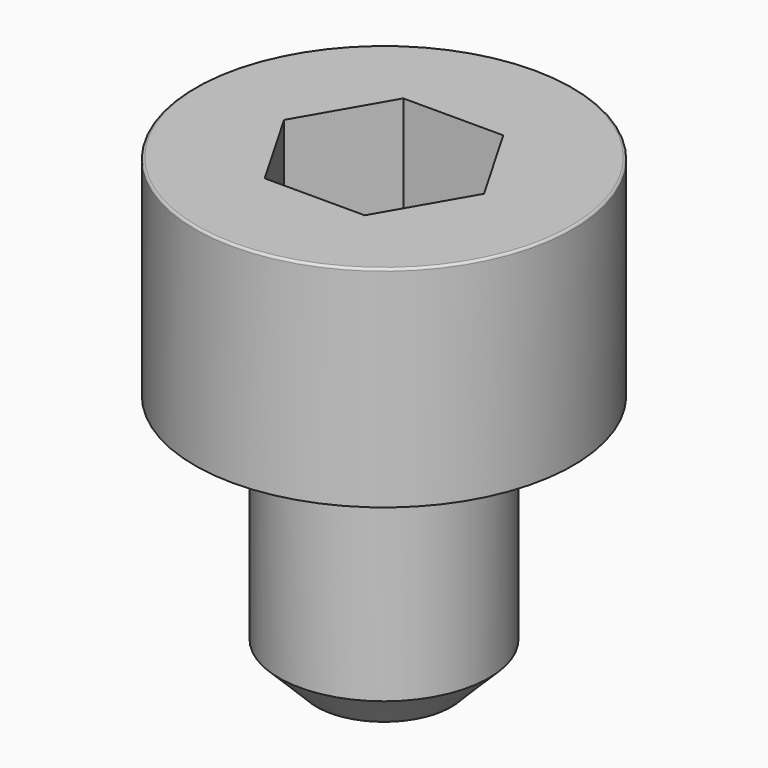
from build123d import *

# Parameters (mm, degrees)
POCKET_DEPTH = 2.06


with BuildPart() as part:
    # Sketch → Revolve (revolve)
    with BuildSketch(Plane.YZ):
        with BuildLine():
            Line((1.249, 0), (2.25, 0))
            Line((2.25, 0), (2.25, 2.47229))
            ThreePointArc((2.25, 2.47229), (2.241884, 2.491884), (2.22229, 2.5))
            Line((2.22229, 2.5), (0, 2.5))
            Line((0, -3), (0, 2.5))
            Line((0.8, -3), (0, -3))
            Line((1.25, -2.55), (0.8, -3))
            Line((1.25, -0.2), (1.25, -2.55))
            Line((1.249, 0), (1.25, -0.2))
        make_face()
    revolve(axis=Axis((0, 0, 0), (0, 0, 1)))

    # Sketch001 → Pocket (cut)
    with BuildSketch(Plane.XY.offset(2.5)):
        Polygon((1.189342, 0), (0.594671, 1.03), (-0.594671, 1.03), (-1.189342, 0), (-0.594671, -1.03), (0.594671, -1.03), align=None)
    extrude(amount=-POCKET_DEPTH, mode=Mode.SUBTRACT)


solid = part.part
